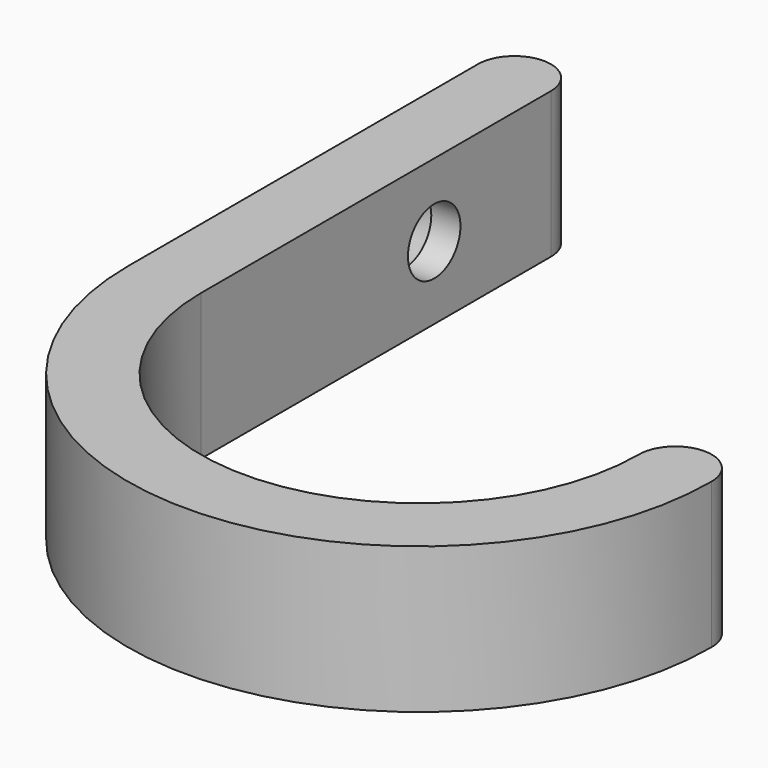
from build123d import *

# Parameters (mm, degrees)
F6_DEPTH = 20
F8_D     = 3.5
F8_DEPTH = 10
F8_TIP   = 1.0515060833
F9_D     = 9
F9_DEPTH = 4
F9_TIP   = 2.7038727856


with BuildPart() as f6:
    # F5 (on Top) → F6 (new body)
    with BuildSketch(Plane.XY):
        with BuildLine():
            ThreePointArc((30, 0), (0, -30), (-30, 0))
            Line((-30, 0), (-30, 60))
            ThreePointArc((-30, 60), (-35, 65), (-40, 60))
            Line((-40, 60), (-40, 0))
            ThreePointArc((-40, 0), (0, -40), (40, 0))
            ThreePointArc((40, 0), (35, 5.0700953218), (30, 0))
        make_face()
    extrude(amount=F6_DEPTH)

    # F8
    with Locations(Plane.YZ.offset(-30)):
        with Locations((40, 10)):
            Hole(F8_D / 2, depth=F8_DEPTH)
            with Locations((0, 0, -(F8_DEPTH + F8_TIP / 2))):  # 118° drill point
                Cone(0, F8_D / 2, F8_TIP, mode=Mode.SUBTRACT)

    # F9
    with Locations(Plane.YZ.offset(-30)):
        with Locations((40, 10)):
            Hole(F9_D / 2, depth=F9_DEPTH)
            with Locations((0, 0, -(F9_DEPTH + F9_TIP / 2))):  # 118° drill point
                Cone(0, F9_D / 2, F9_TIP, mode=Mode.SUBTRACT)


solid = f6.part
